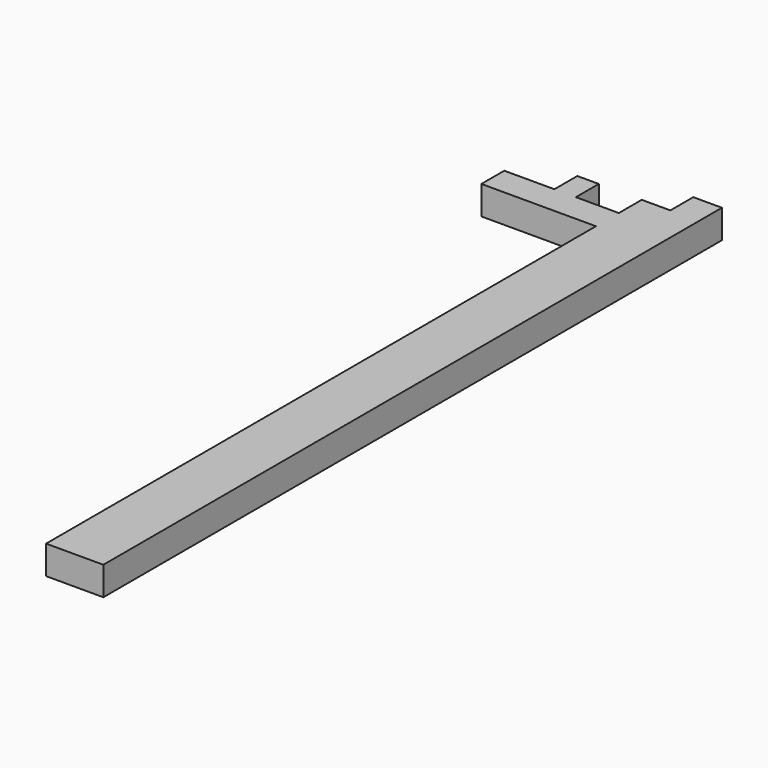
from build123d import *

# Parameters (mm, degrees)
F0_W     = 12.7
F0_H     = 152.4
F0_W_2   = 6.35
F0_H_2   = 6.35
F0_W_3   = 4.7625
F1_DEPTH = 6.35


with BuildPart() as f1:
    # F0 (on Top) → F1 (new body)
    with BuildSketch(Plane.XY):
        with Locations((-53.313692, -70.189692)):
            Rectangle(F0_W, F0_H)
        Polygon((-59.663692, 6.010308), (-46.963692, 6.010308), (-46.963692, 12.360308), (-59.663692, 12.360308), (-69.188692, 12.360308), (-73.951192, 12.360308), (-85.063692, 12.360308), (-85.063692, 6.010308), align=None)
        Polygon((-59.663692, 12.360308), (-46.963692, 12.360308), (-46.963692, 18.710308), (-53.313692, 18.710308), (-59.663692, 18.710308), align=None)
        with Locations((-50.138692, 21.885308)):
            Rectangle(F0_W_2, F0_H_2)
        with Locations((-71.569942, 15.535308)):
            Rectangle(F0_W_3, F0_H_2)
    extrude(amount=F1_DEPTH)


solid = f1.part
